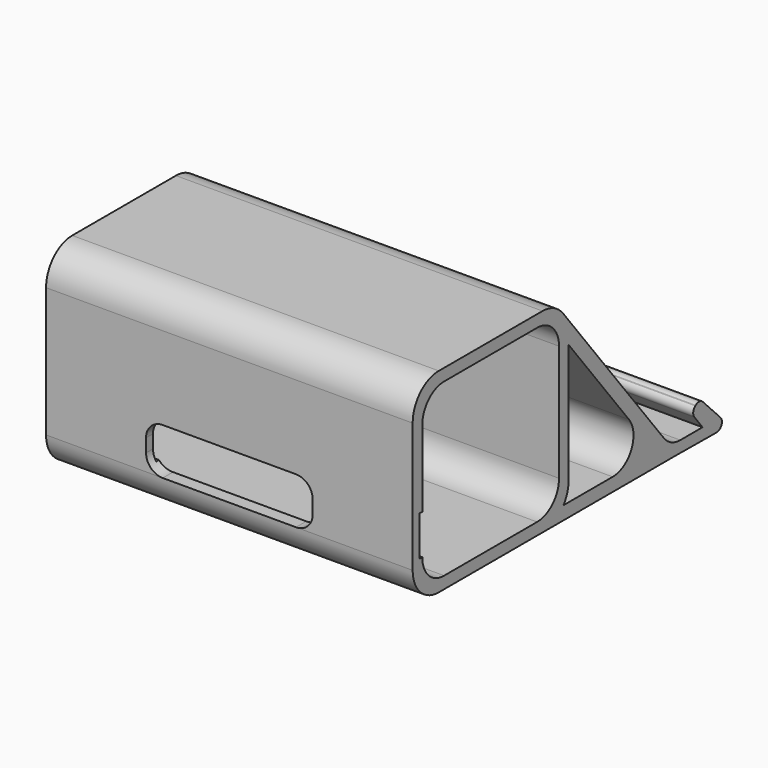
from build123d import *

# Parameters (mm, degrees)
F1_DEPTH = 55
F2_W     = 50
F2_H     = 14
F3_DEPTH = 5
F4_W     = 1
F4_H     = 12
F5_DEPTH = 112
F7_DEPTH = 110
F8_R     = 5


with BuildPart() as f1:
    # F0 (on Right) → F1 (new body, symmetric)
    with BuildSketch(Plane.YZ):
        with BuildLine():
            Line((29.25, -19.45), (29.25, 19.45))
            ThreePointArc((29.25, 19.45), (26.3796464556, 26.3796464556), (19.45, 29.25))
            Line((19.45, 29.25), (-19.45, 29.25))
            ThreePointArc((-19.45, 29.25), (-26.3796464556, 26.3796464556), (-29.25, 19.45))
            Line((-29.25, 19.45), (-29.25, -19.45))
            ThreePointArc((-29.25, -19.45), (-26.3796464556, -26.3796464556), (-19.45, -29.25))
            Line((-19.45, -29.25), (19.45, -29.25))
            ThreePointArc((19.45, -29.25), (26.3796464556, -26.3796464556), (29.25, -19.45))
        make_face()
        with BuildLine():
            ThreePointArc((17.45, 25.6500001997), (23.2482757469, 23.2482757469), (25.6500001997, 17.45))
            Line((25.6500001997, 17.45), (25.6500001997, -17.45))
            ThreePointArc((25.6500001997, -17.45), (23.2482757469, -23.2482757469), (17.45, -25.6500001997))
            Line((17.45, -25.6500001997), (-17.45, -25.6500001997))
            ThreePointArc((-17.45, -25.6500001997), (-23.2482757469, -23.2482757469), (-25.6500001997, -17.45))
            Line((-25.6500001997, -17.45), (-25.6500001997, 17.45))
            ThreePointArc((-25.6500001997, 17.45), (-23.2482757469, 23.2482757469), (-17.45, 25.6500001997))
            Line((-17.45, 25.6500001997), (17.45, 25.6500001997))
        make_face(mode=Mode.SUBTRACT)
    extrude(amount=F1_DEPTH, both=True)

    # F2 (on face) → F3 (cut)
    with BuildSketch(Plane.XZ.offset(29.25)):
        with Locations((0, -12.45)):
            Rectangle(F2_W, F2_H)
    extrude(amount=-F3_DEPTH, mode=Mode.SUBTRACT)

    # F4 (on face) → F5 (cut)
    with BuildSketch(Plane.YZ.offset(55)):
        with Locations((-26.1500001997, -11.45)):
            Rectangle(F4_W, F4_H)
    extrude(amount=-F5_DEPTH, mode=Mode.SUBTRACT)

    # F6 (on face) → F7 (join)
    with BuildSketch(Plane.YZ.offset(55)):
        with BuildLine():
            ThreePointArc((27.3493670633, -25.25), (23.8771887242, -28.1929971978), (19.45, -29.25))
            Line((19.45, -29.25), (70, -29.25))
            Line((70, -29.25), (84.7360996039, -29.3794282716))
            ThreePointArc((84.7360996039, -29.3794282716), (86.5921446829, -28.1669015856), (86.1891008154, -25.98683738))
            Line((86.1891008154, -25.98683738), (79.577611796, -19.1723148788))
            ThreePointArc((79.577611796, -19.1723148788), (78.278627167, -18.5696430639), (76.9096917505, -18.9898694416))
            Line((76.9096917505, -18.9898694416), (76.7505439798, -19.1143983305))
            ThreePointArc((76.7505439798, -19.1143983305), (75.997756862, -20.4472363949), (76.4079148199, -21.9219961042))
            Line((76.4079148199, -21.9219961042), (79.4891255871, -25.8597797712))
            Line((79.4891255871, -25.8597797712), (71.1479993126, -25.8597797712))
            ThreePointArc((71.1479993126, -25.8597797712), (67.7312883661, -25.0716330431), (65.0050567922, -22.8664685681))
            Line((65.0050567922, -22.8664685681), (27.1680559872, 25.4891731038))
            ThreePointArc((27.1680559872, 25.4891731038), (28.7149055223, 22.6439827273), (29.25, 19.45))
            Line((29.25, 19.45), (29.25, 16.3374962926))
            Line((29.25, 16.3374962926), (51.9267094517, -12.6433112031))
            ThreePointArc((51.9267094517, -12.6433112031), (52.7956202032, -20.8667109465), (45.7837669312, -25.25))
            Line((45.7837669312, -25.25), (27.3493670633, -25.25))
        make_face()
    extrude(amount=-F7_DEPTH)

    # F8
    f8_edges = [f1.edges().sort_by_distance(p)[0] for p in [
        (-25, -27.95, -5.45),
        (-25, -27.326179, -19.45),
        (25, -27.326179, -19.45),
        (25, -27.95, -5.45),
    ]]
    fillet(f8_edges, radius=F8_R)


solid = f1.part
